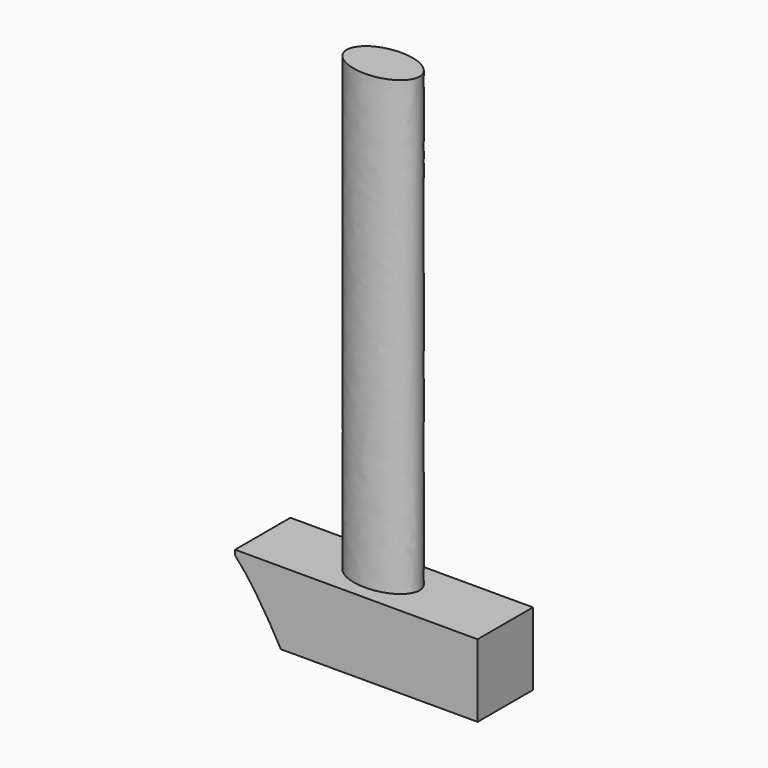
from build123d import *

# Parameters (mm, degrees)
F1_DEPTH      = 108.25
F0_W          = 50
F0_H          = 14.2543859158
F2_DEPTH      = 15
F4_DEPTH      = 25
F4_DEPTH_BACK = 25


with BuildPart() as f1:
    # F0 (on Top) → F1 (new body)
    with BuildSketch(Plane.XY):
        with BuildLine():
            add(Edge.make_bspline(
                [(7.5, 0), (7.5, 8.1203551532), (-3.75, 4.0601775766), (-15, 0), (-3.75, -4.0601775766), (7.5, -8.1203551532), (7.5, 0)],
                knots=[0, 0, 0, 2.0943951024, 2.0943951024, 4.1887902048, 4.1887902048, 6.2831853072, 6.2831853072, 6.2831853072], degree=2, weights=[1, 0.5, 1, 0.5, 1, 0.5, 1]))
        make_face()
    extrude(amount=F1_DEPTH)

    # F0 (on Top) → F2 (join)
    with BuildSketch(Plane.XY):
        with Locations((0.4385960588, -0.3289473242)):
            Rectangle(F0_W, F0_H)
        with BuildLine():
            add(Edge.make_bspline(
                [(7.5, 0), (7.5, 8.1203551532), (-3.75, 4.0601775766), (-15, 0), (-3.75, -4.0601775766), (7.5, -8.1203551532), (7.5, 0)],
                knots=[0, 0, 0, 2.0943951024, 2.0943951024, 4.1887902048, 4.1887902048, 6.2831853072, 6.2831853072, 6.2831853072], degree=2, weights=[1, 0.5, 1, 0.5, 1, 0.5, 1]))
        make_face(mode=Mode.SUBTRACT)
    extrude(amount=F2_DEPTH)

    # F3 (on Front) → F4 (cut, two sides)
    with BuildSketch(Plane.XZ) as f4_sk:
        with BuildLine():
            Line((-102.876528388, -34.6331812675), (-13.7222725898, -2.4476898834))
            add(Edge.make_bspline(
                [(-13.7222725898, -2.4476898834), (-21.162031834, 10.8005169335), (-39.0326566675, 42.6232851133), (-97.4447040112, -29.1818083054), (-102.876528388, -34.6331812675)],
                knots=[0, 0, 0, 0, 0.3794464572, 0.9114468707, 0.9114468707, 0.9114468707, 0.9114468707], degree=3))
        make_face()
    extrude(amount=-F4_DEPTH, mode=Mode.SUBTRACT)
    extrude(f4_sk.sketch, amount=F4_DEPTH_BACK, mode=Mode.SUBTRACT)


solid = f1.part
